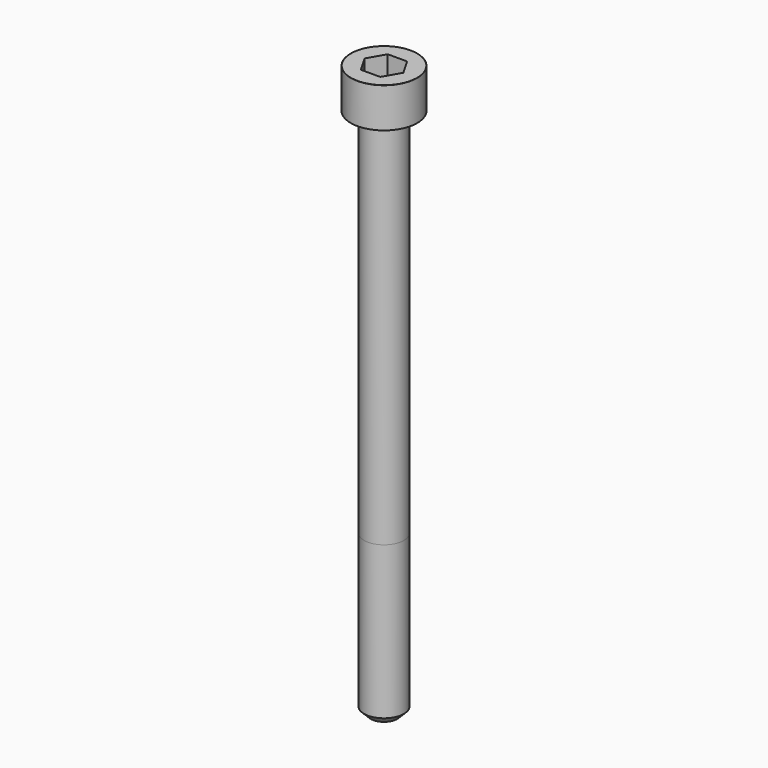
from build123d import *

# Parameters (mm, degrees)
POCKET_DEPTH = 5.06


with BuildPart() as part:
    # Sketch → Revolve (revolve)
    with BuildSketch(Plane.YZ):
        with BuildLine():
            Line((2.999, 0), (5, 0))
            Line((5, 0), (5, 5.97229))
            ThreePointArc((5, 5.97229), (4.991884, 5.991884), (4.97229, 6))
            Line((4.97229, 6), (0, 6))
            Line((0, -80), (0, 6))
            Line((2, -80), (0, -80))
            Line((3, -79), (2, -80))
            Line((3, -56), (3, -79))
            Line((2.999, 0), (3, -56))
        make_face()
    revolve(axis=Axis((0, 0, 0), (0, 0, 1)))

    # Sketch001 → Pocket (cut)
    with BuildSketch(Plane.XY.offset(6)):
        Polygon((2.921392, 0), (1.460696, 2.53), (-1.460696, 2.53), (-2.921392, 0), (-1.460696, -2.53), (1.460696, -2.53), align=None)
    extrude(amount=-POCKET_DEPTH, mode=Mode.SUBTRACT)


solid = part.part
